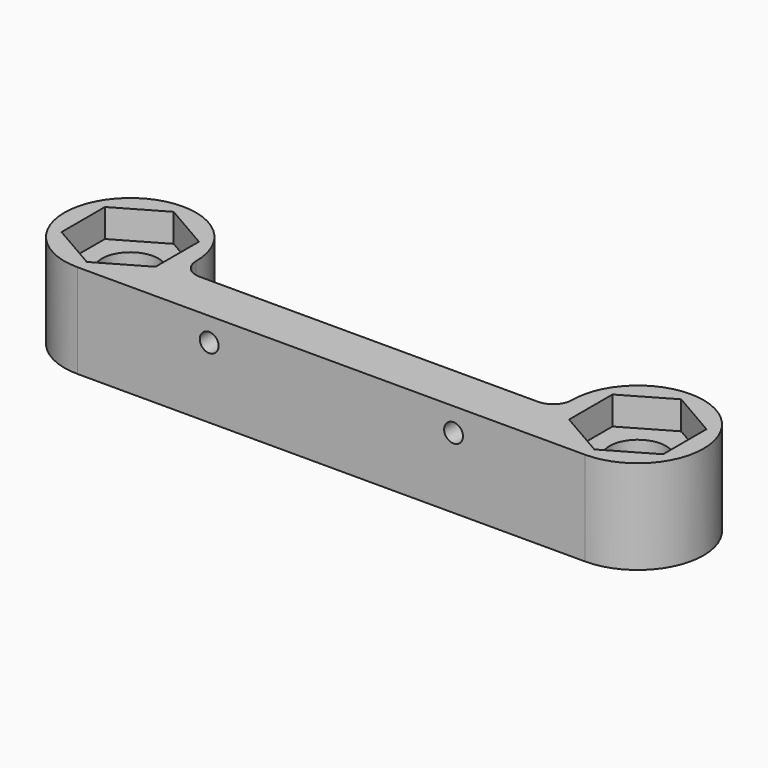
from build123d import *

# Parameters (mm, degrees)
SKETCH_R        = 3
PAD_DEPTH       = 10
SKETCH001_R     = 1
POCKET_DEPTH    = 90.211236
POCKET001_DEPTH = 3
POCKET002_DEPTH = 86.211236


with BuildPart() as part:
    # Sketch → Pad (new body)
    with BuildSketch(Plane.XY):
        with BuildLine():
            ThreePointArc((-27.000023, 7), (-34, 0), (-27.000023, -7))
            Line((-27.000023, -7), (0, -7))
            Line((0, -7), (0, 7))
            Line((-27.000023, 7), (0, 7))
        make_face()
        with Locations((-27, 0)):
            Circle(SKETCH_R, mode=Mode.SUBTRACT)
    pad = extrude(amount=PAD_DEPTH)

    # Sketch001 → Pocket (cut, through all)
    with BuildSketch(Plane.XZ.offset(7)):
        with Locations((-13, 7.5)):
            Circle(SKETCH001_R)
    pocket = extrude(amount=-POCKET_DEPTH, mode=Mode.SUBTRACT)

    # Sketch002 (on Face5 of Pocket) → Pocket001 (cut)
    with BuildSketch(Plane.XY.offset(10)):
        Polygon((-22, 2.886751), (-27, 5.773503), (-32, 2.886751), (-32, -2.886751), (-27, -5.773503), (-22, -2.886751), align=None)
    pocket001 = extrude(amount=-POCKET001_DEPTH, mode=Mode.SUBTRACT)

    # Sketch003 (on Face5 of Pocket001) → Pocket002 (cut, through all)
    with BuildSketch(Plane.XY.offset(10)):
        with BuildLine():
            Line((0, -2), (-18, -2))
            ThreePointArc((-20, -1.6e-05), (-19.414208, -1.414219), (-18, -2))
            ThreePointArc((-20, -1.6e-05), (-22.050255, 4.94975), (-27.000023, 7))
            Line((-27.000023, 7), (0, 7))
            Line((0, -2), (0, 7))
        make_face()
    pocket002 = extrude(amount=-POCKET002_DEPTH, mode=Mode.SUBTRACT)

    # Mirrored: Pad, Pocket, Pocket001, Pocket002 across Sketch003 V_Axis
    add(pad.mirror(Plane(origin=(0, 0, 10), x_dir=(0, 0, 1), z_dir=(1, 0, 0))))
    add(pocket.mirror(Plane(origin=(0, 0, 10), x_dir=(0, 0, 1), z_dir=(1, 0, 0))), mode=Mode.SUBTRACT)
    add(pocket001.mirror(Plane(origin=(0, 0, 10), x_dir=(0, 0, 1), z_dir=(1, 0, 0))), mode=Mode.SUBTRACT)
    add(pocket002.mirror(Plane(origin=(0, 0, 10), x_dir=(0, 0, 1), z_dir=(1, 0, 0))), mode=Mode.SUBTRACT)


solid = part.part
